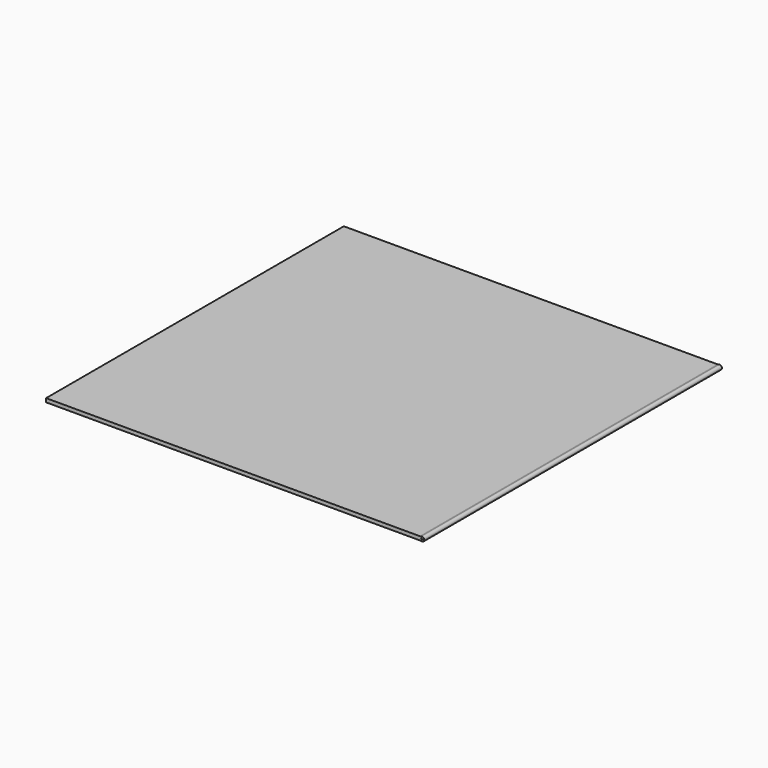
from build123d import *

# Parameters (mm, degrees)
F1_DEPTH = 635


with BuildPart() as f1:
    # F0 (on Front) → F1 (new body)
    with BuildSketch(Plane.XZ):
        with BuildLine():
            Line((-317.5, -3.175), (313.96447, -3.175))
            ThreePointArc((313.96447, -3.175), (315.087002, -3.275006), (316.174176, -3.571875))
            ThreePointArc((316.174176, -3.571875), (321.31, 0), (316.174176, 3.571875))
            ThreePointArc((316.174176, 3.571875), (315.087002, 3.275006), (313.96447, 3.175))
            Line((313.96447, 3.175), (-317.5, 3.175))
            Line((-317.5, 3.175), (-323.85, 3.175))
            Line((-323.85, 3.175), (-323.85, 0))
            Line((-323.85, 0), (-323.85, -3.175))
            Line((-323.85, -3.175), (-317.5, -3.175))
        make_face()
        with BuildLine():
            ThreePointArc((317.23546, -0.577273), (315.943889, -0.145997), (314.590064, 0))
            ThreePointArc((314.590064, 0), (315.943889, 0.145997), (317.23546, 0.577273))
            ThreePointArc((317.23546, 0.577273), (318.135, 0), (317.23546, -0.577273))
        make_face(mode=Mode.SUBTRACT)
    extrude(amount=F1_DEPTH)


solid = f1.part
